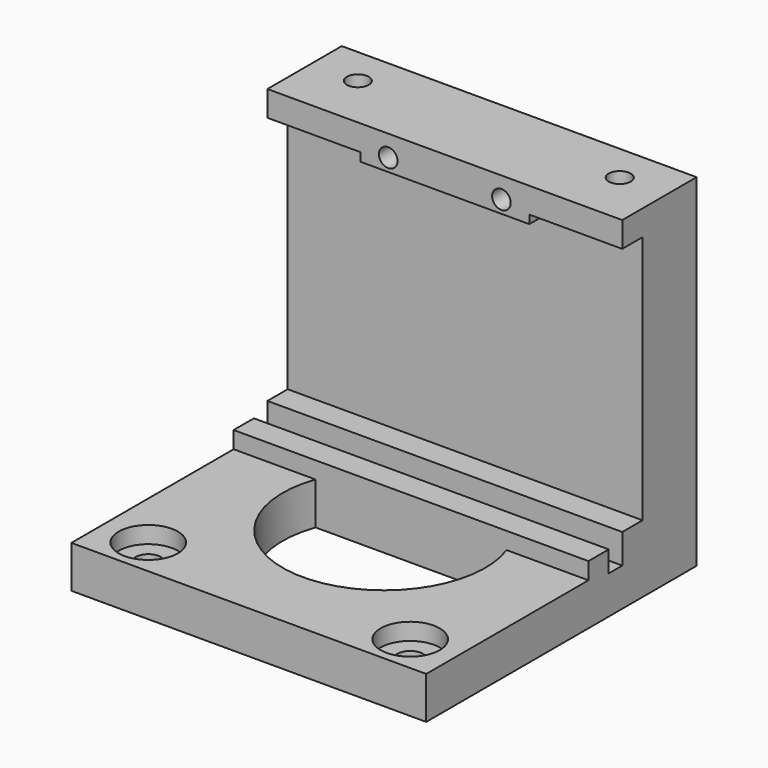
from build123d import *

# Parameters (mm, degrees)
CYLINDER001_R     = 1.3
CYLINDER001_DEPTH = 50
CYLINDER007_R     = 1.1
CYLINDER007_DEPTH = 11
CYLINDER008_R     = 1.1
CYLINDER008_DEPTH = 11
CYLINDER009_R     = 3.5
CYLINDER009_DEPTH = 2
CYLINDER010_R     = 3.5
CYLINDER010_DEPTH = 2
CYLINDER011_R     = 1.5
CYLINDER011_DEPTH = 5
CYLINDER012_R     = 1.5
CYLINDER012_DEPTH = 5
CYLINDER_R        = 1.3
CYLINDER_DEPTH    = 50
BOX008_W          = 20
BOX008_H          = 3
BOX008_DEPTH      = 1
BOX007_W          = 11
BOX007_H          = 3
BOX007_DEPTH      = 2
BOX006_W          = 11
BOX006_H          = 3
BOX006_DEPTH      = 2
BOX009_W          = 42
BOX009_H          = 2
BOX009_DEPTH      = 2
BOX004_W          = 42
BOX004_H          = 16
BOX004_DEPTH      = 5
CYLINDER006_R     = 12
CYLINDER006_DEPTH = 5
BOX001_W          = 42
BOX001_H          = 8
BOX001_DEPTH      = 40.5
BOX003_W          = 42
BOX003_H          = 3
BOX003_DEPTH      = 7
BOX002_W          = 42
BOX002_H          = 3
BOX002_DEPTH      = 8
BOX_W             = 42
BOX_H             = 40
BOX_DEPTH         = 5
BOX005_W          = 42
BOX005_H          = 3
BOX005_DEPTH      = 5


with BuildPart() as cylinder001:
    # Cylinder001 → Cylinder001 (new body)
    with BuildSketch(Plane(origin=(35.5, -4.5, 0), x_dir=(1, 0, 0), z_dir=(0, 0, 1))):
        Circle(CYLINDER001_R)
    extrude(amount=CYLINDER001_DEPTH)


with BuildPart() as cylinder007:
    # Cylinder007 → Cylinder007 (new body)
    with BuildSketch(Plane(origin=(13.3, 0, 38), x_dir=(1, 0, 0), z_dir=(0, -1, 0))):
        Circle(CYLINDER007_R)
    extrude(amount=CYLINDER007_DEPTH)


with BuildPart() as cylinder008:
    # Cylinder008 → Cylinder008 (new body)
    with BuildSketch(Plane(origin=(26.7, 0, 38), x_dir=(1, 0, 0), z_dir=(0, -1, 0))):
        Circle(CYLINDER008_R)
    extrude(amount=CYLINDER008_DEPTH)


with BuildPart() as cylinder009:
    # Cylinder009 → Cylinder009 (new body)
    with BuildSketch(Plane(origin=(4.5, -35.5, 3), x_dir=(1, 0, 0), z_dir=(0, 0, 1))):
        Circle(CYLINDER009_R)
    extrude(amount=CYLINDER009_DEPTH)


with BuildPart() as cylinder010:
    # Cylinder010 → Cylinder010 (new body)
    with BuildSketch(Plane(origin=(35.5, -35.5, 3), x_dir=(1, 0, 0), z_dir=(0, 0, 1))):
        Circle(CYLINDER010_R)
    extrude(amount=CYLINDER010_DEPTH)


with BuildPart() as cylinder011:
    # Cylinder011 → Cylinder011 (new body)
    with BuildSketch(Plane(origin=(35.5, -35.5, 0), x_dir=(1, 0, 0), z_dir=(0, 0, 1))):
        Circle(CYLINDER011_R)
    extrude(amount=CYLINDER011_DEPTH)


with BuildPart() as cylinder012:
    # Cylinder012 → Cylinder012 (new body)
    with BuildSketch(Plane(origin=(4.5, -35.5, 0), x_dir=(1, 0, 0), z_dir=(0, 0, 1))):
        Circle(CYLINDER012_R)
    extrude(amount=CYLINDER012_DEPTH)


with BuildPart() as fusion003:
    # Cylinder → Cylinder (new body)
    with BuildSketch(Plane(origin=(4.5, -4.5, 0), x_dir=(1, 0, 0), z_dir=(0, 0, 1))):
        Circle(CYLINDER_R)
    extrude(amount=CYLINDER_DEPTH)

    # Fusion003: union Cylinder001, Cylinder007, Cylinder008, Cylinder009, Cylinder010, Cylinder011, Cylinder012
    add(cylinder001.part)
    add(cylinder007.part)
    add(cylinder008.part)
    add(cylinder009.part)
    add(cylinder010.part)
    add(cylinder011.part)
    add(cylinder012.part)


with BuildPart() as cube008:
    # Box008 → Box008 (new body)
    with BuildSketch(Plane(origin=(10, -11, 35.5), x_dir=(1, 0, 0), z_dir=(0, 0, 1))):
        with Locations((10, 1.5)):
            Rectangle(BOX008_W, BOX008_H)
    extrude(amount=BOX008_DEPTH)


with BuildPart() as cube007:
    # Box007 → Box007 (new body)
    with BuildSketch(Plane(origin=(30, -11, 35.5), x_dir=(1, 0, 0), z_dir=(0, 0, 1))):
        with Locations((5.5, 1.5)):
            Rectangle(BOX007_W, BOX007_H)
    extrude(amount=BOX007_DEPTH)


with BuildPart() as cube006:
    # Box006 → Box006 (new body)
    with BuildSketch(Plane(origin=(-1, -11, 35.5), x_dir=(1, 0, 0), z_dir=(0, 0, 1))):
        with Locations((5.5, 1.5)):
            Rectangle(BOX006_W, BOX006_H)
    extrude(amount=BOX006_DEPTH)


with BuildPart() as fusion002:
    # Box009 → Box009 (new body)
    with BuildSketch(Plane(origin=(-1, -13, 4.5), x_dir=(1, 0, 0), z_dir=(0, 0, 1))):
        with Locations((21, 1)):
            Rectangle(BOX009_W, BOX009_H)
    extrude(amount=BOX009_DEPTH)

    # Fusion002: union Cube008, Cube007, Cube006
    add(cube008.part)
    add(cube007.part)
    add(cube006.part)


with BuildPart() as cube004:
    # Box004 → Box004 (new body)
    with BuildSketch(Plane(origin=(-1, -16, 0), x_dir=(1, 0, 0), z_dir=(0, 0, 1))):
        with Locations((21, 8)):
            Rectangle(BOX004_W, BOX004_H)
    extrude(amount=BOX004_DEPTH)


with BuildPart() as cut:
    # Cylinder006 → Cylinder006 (new body)
    with BuildSketch(Plane(origin=(20, -20, 0), x_dir=(1, 0, 0), z_dir=(0, 0, 1))):
        Circle(CYLINDER006_R)
    extrude(amount=CYLINDER006_DEPTH)

    # Cut: cut Cube004
    add(cube004.part, mode=Mode.SUBTRACT)


with BuildPart() as cube001:
    # Box001 → Box001 (new body)
    with BuildSketch(Plane(origin=(-1, -8, 0), x_dir=(1, 0, 0), z_dir=(0, 0, 1))):
        with Locations((21, 4)):
            Rectangle(BOX001_W, BOX001_H)
    extrude(amount=BOX001_DEPTH)


with BuildPart() as cube003:
    # Box003 → Box003 (new body)
    with BuildSketch(Plane(origin=(-1, -16, 0), x_dir=(1, 0, 0), z_dir=(0, 0, 1))):
        with Locations((21, 1.5)):
            Rectangle(BOX003_W, BOX003_H)
    extrude(amount=BOX003_DEPTH)


with BuildPart() as cube002:
    # Box002 → Box002 (new body)
    with BuildSketch(Plane(origin=(-1, -11, 0), x_dir=(1, 0, 0), z_dir=(0, 0, 1))):
        with Locations((21, 1.5)):
            Rectangle(BOX002_W, BOX002_H)
    extrude(amount=BOX002_DEPTH)


with BuildPart() as cube:
    # Box → Box (new body)
    with BuildSketch(Plane(origin=(-1, -40, 0), x_dir=(1, 0, 0), z_dir=(0, 0, 1))):
        with Locations((21, 20)):
            Rectangle(BOX_W, BOX_H)
    extrude(amount=BOX_DEPTH)


with BuildPart() as cut003:
    # Box005 → Box005 (new body)
    with BuildSketch(Plane(origin=(-1, -11, 35.5), x_dir=(1, 0, 0), z_dir=(0, 0, 1))):
        with Locations((21, 1.5)):
            Rectangle(BOX005_W, BOX005_H)
    extrude(amount=BOX005_DEPTH)

    # Fusion: union Cube001, Cube003, Cube002, Cube
    add(cube001.part)
    add(cube003.part)
    add(cube002.part)
    add(cube.part)

    # Cut001: cut Cut
    add(cut.part, mode=Mode.SUBTRACT)

    # Cut002: cut Fusion002
    add(fusion002.part, mode=Mode.SUBTRACT)

    # Cut003: cut Fusion003
    add(fusion003.part, mode=Mode.SUBTRACT)


solid = cut003.part
